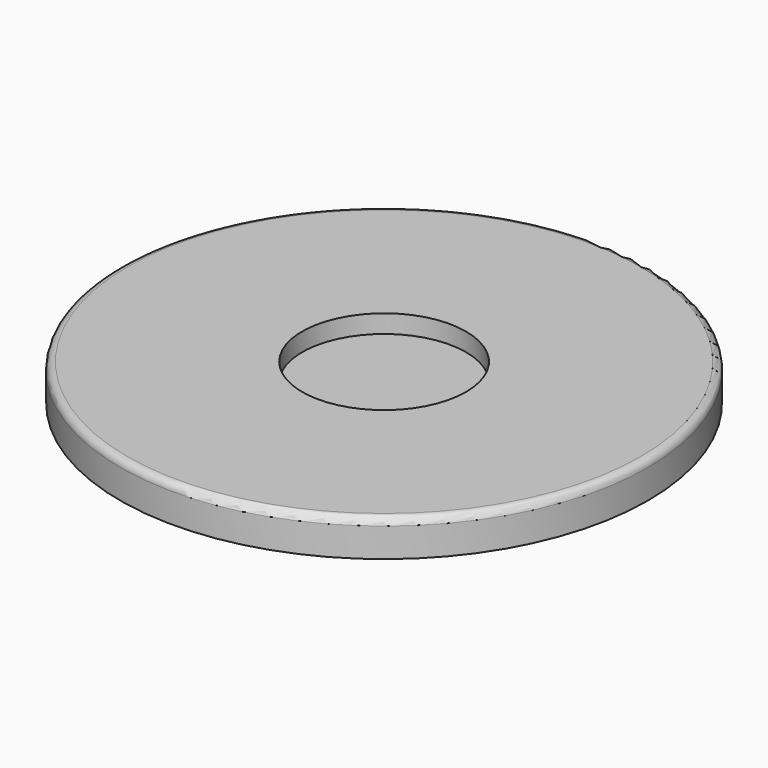
from build123d import *

# Parameters (mm, degrees)
F0_R     = 14.5
F1_DEPTH = 2
F2_R     = 0.4
F3_R     = 1
F4_DEPTH = 1.5
F5_R     = 0.4
F6_R     = 4.5
F7_DEPTH = 1


with BuildPart() as f1:
    # F0 (on Top) → F1 (new body)
    with BuildSketch(Plane.XY):
        Circle(F0_R)
    extrude(amount=F1_DEPTH)

    # F2
    f2_edges = [f1.edges().sort_by_distance(p)[0] for p in [
        (-14.5, 0, 2),
    ]]
    fillet(f2_edges, radius=F2_R)

    # F3 (on face) → F4 (join)
    with BuildSketch(Plane(origin=(0, 0, 0), x_dir=(1, 0, 0), z_dir=(0, 0, -1))):
        with Locations((-10, 0)):
            Circle(F3_R)
        with Locations((10, 0)):
            Circle(F3_R)
    extrude(amount=F4_DEPTH)

    # F5
    f5_edges = [f1.edges().sort_by_distance(p)[0] for p in [
        (-11, 0, -1.5),
        (9, 0, -1.5),
    ]]
    fillet(f5_edges, radius=F5_R)

    # F6 (on face) → F7 (cut)
    with BuildSketch(Plane.XY.offset(2)):
        Circle(F6_R)
    extrude(amount=-F7_DEPTH, mode=Mode.SUBTRACT)


solid = f1.part
